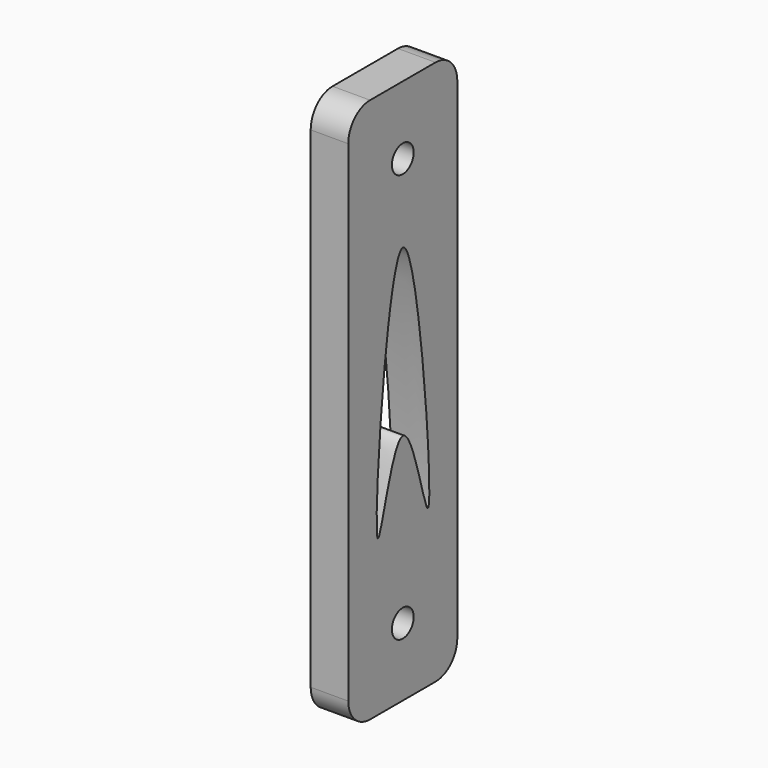
from build123d import *

# Parameters (mm, degrees)
F1_DEPTH = 25.4
F3_D     = 5.08
F2_R     = 2.4252115648
F4_DEPTH = 7.001
F5_D     = 5.08
F6_R     = 5.08
F7_R     = 5.08


with BuildPart() as f1:
    # F0 (on Front) → F1 (new body)
    with BuildSketch(Plane.XZ):
        Polygon((7, 101.6), (0, 101.6), (0, 0), (7, 0), (7, 3.6533342209), align=None)
    extrude(amount=F1_DEPTH)

    # F3 (through all)
    with Locations(Plane(origin=(0, 0, 0), x_dir=(0, 1, 0), z_dir=(-1, 0, 0))):
        with Locations((-12.7, -88.9)):
            Hole(F3_D / 2)

    # F2 (on Right) → F4 (cut, through all)
    with BuildSketch(Plane.YZ):
        with Locations((-12.7, 88.9)):
            Circle(F2_R)
        with BuildLine():
            add(Edge.make_bspline(
                [(-12.7, 74.3024547756), (-9.0931384906, 74.3114171346), (-3.2674369503, 3.8706315676), (-12.7636589757, 58.0743659318), (-21.9217417349, 3.344276822), (-16.3164932292, 74.2934684836), (-12.7, 74.3024547756)],
                knots=[0, 0, 0, 0, 0.3155118447, 0.4989692674, 0.6836456163, 1, 1, 1, 1], degree=3))
        make_face()
    extrude(amount=F4_DEPTH, mode=Mode.SUBTRACT)

    # F5 (through all)
    with Locations(Plane(origin=(0, 0, 0), x_dir=(0, 1, 0), z_dir=(-1, 0, 0))):
        with Locations((-12.7, -12.7)):
            Hole(F5_D / 2)

    # F6
    f6_edges = [f1.edges().sort_by_distance(p)[0] for p in [
        (3.5, -25.4, 101.6),
        (3.5, 0, 101.6),
    ]]
    fillet(f6_edges, radius=F6_R)

    # F7
    f7_edges = [f1.edges().sort_by_distance(p)[0] for p in [
        (3.5, -25.4, 0),
        (3.5, 0, 0),
    ]]
    fillet(f7_edges, radius=F7_R)


solid = f1.part
